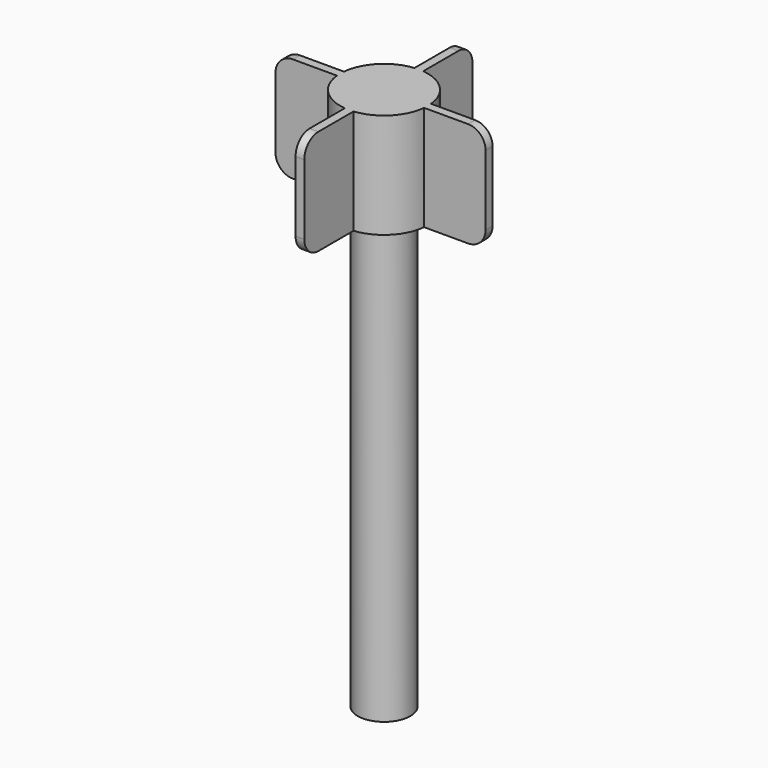
from build123d import *

# Parameters (mm, degrees)
F1_DEPTH = 12
F2_R     = 2
F3_R     = 3
F4_DEPTH = 50


with BuildPart() as f1:
    # F0 (on Top) → F1 (new body)
    with BuildSketch(Plane.XY):
        with BuildLine():
            Line((-0.5, 12), (-0.5, 4.974937))
            ThreePointArc((-0.5, 4.974937), (-3.535534, 3.535534), (-4.974937, 0.5))
            Line((-4.974937, 0.5), (-12, 0.5))
            Line((-12, 0.5), (-12, -0.5))
            Line((-12, -0.5), (-4.974937, -0.5))
            ThreePointArc((-4.974937, -0.5), (-3.535534, -3.535534), (-0.5, -4.974937))
            Line((-0.5, -4.974937), (-0.5, -12))
            Line((-0.5, -12), (0.5, -12))
            Line((0.5, -12), (0.5, -4.974937))
            ThreePointArc((0.5, -4.974937), (3.535534, -3.535534), (4.974937, -0.5))
            Line((4.974937, -0.5), (12, -0.5))
            Line((12, -0.5), (12, 0.5))
            Line((12, 0.5), (4.974937, 0.5))
            ThreePointArc((4.974937, 0.5), (3.535534, 3.535534), (0.5, 4.974937))
            Line((0.5, 4.974937), (0.5, 12))
            Line((0.5, 12), (-0.5, 12))
        make_face()
    extrude(amount=F1_DEPTH)

    # F2
    f2_edges = [f1.edges().sort_by_distance(p)[0] for p in [
        (-12, 0, 12),
        (-12, 0, 0),
        (0, 12, 12),
        (12, 0, 12),
        (0, -12, 12),
        (0, 12, 0),
        (12, 0, 0),
        (0, -12, 0),
    ]]
    fillet(f2_edges, radius=F2_R)

    # F3 (on face) → F4 (join)
    with BuildSketch(Plane(origin=(0, 0, 0), x_dir=(1, 0, 0), z_dir=(0, 0, -1))):
        Circle(F3_R)
    extrude(amount=F4_DEPTH)


solid = f1.part
